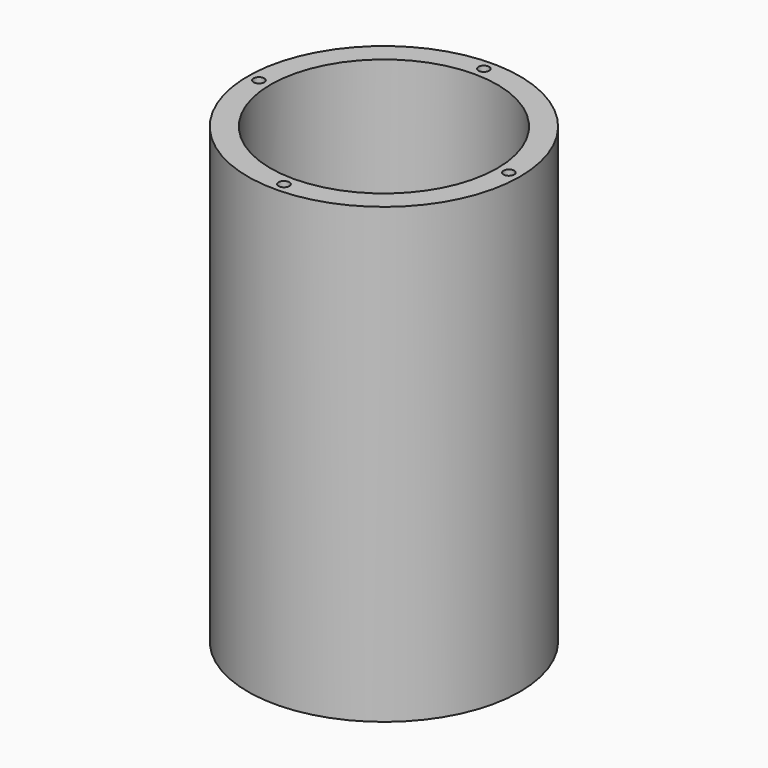
from build123d import *

# Parameters (mm, degrees)
F0_R     = 38.1
F0_R_2   = 1.5
F0_R_3   = 31.75
F1_DEPTH = 127
F2_R     = 6
F3_DEPTH = 42.2
F4_R     = 1.5
F5_DEPTH = 10
F6_COUNT = 4
F7_DEPTH = 20
F8_COUNT = 4


with BuildPart() as f1:
    # F0 (on Top) → F1 (new body)
    with BuildSketch(Plane.XY):
        Circle(F0_R)
        with Locations((0, -35)):
            Circle(F0_R_2, mode=Mode.SUBTRACT)
        Circle(F0_R_3, mode=Mode.SUBTRACT)
        with Locations((0, -35)):
            Circle(F0_R_2)
    extrude(amount=F1_DEPTH)

    # F2 (on Front) → F3 (cut)
    with BuildSketch(Plane.XZ):
        with Locations((0, 50)):
            Circle(F2_R)
    extrude(amount=-F3_DEPTH, mode=Mode.SUBTRACT)

    # F6: F5 ×4 about axis
    f6_axis = Axis((0, 0, 127), (0, 0, 1))


with BuildPart() as f5:
    # F4 (on face) → F5 (new body)
    with BuildSketch(Plane.XY.offset(127)):
        with Locations((0, 35)):
            Circle(F4_R)
    extrude(amount=-F5_DEPTH)


with BuildPart() as f1_1:
    add(f1.part)
    for i in range(1, F6_COUNT):
        add(f5.part.rotate(f6_axis, i * 360 / F6_COUNT), mode=Mode.SUBTRACT)

    # F6#seed: cut F5
    add(f5.part, mode=Mode.SUBTRACT)

    # F8: F7 ×4 about axis
    f8_axis = Axis((0, 0, 0), (0, 0, 1))


with BuildPart() as f7:
    # F0 (on Top) → F7 (new body)
    with BuildSketch(Plane.XY):
        with Locations((0, -35)):
            Circle(F0_R_2)
    extrude(amount=F7_DEPTH)


with BuildPart() as f1_2:
    add(f1_1.part)
    for i in range(1, F8_COUNT):
        add(f7.part.rotate(f8_axis, i * 360 / F8_COUNT), mode=Mode.SUBTRACT)

    # F8#seed: cut F7
    add(f7.part, mode=Mode.SUBTRACT)


solid = f1_2.part
